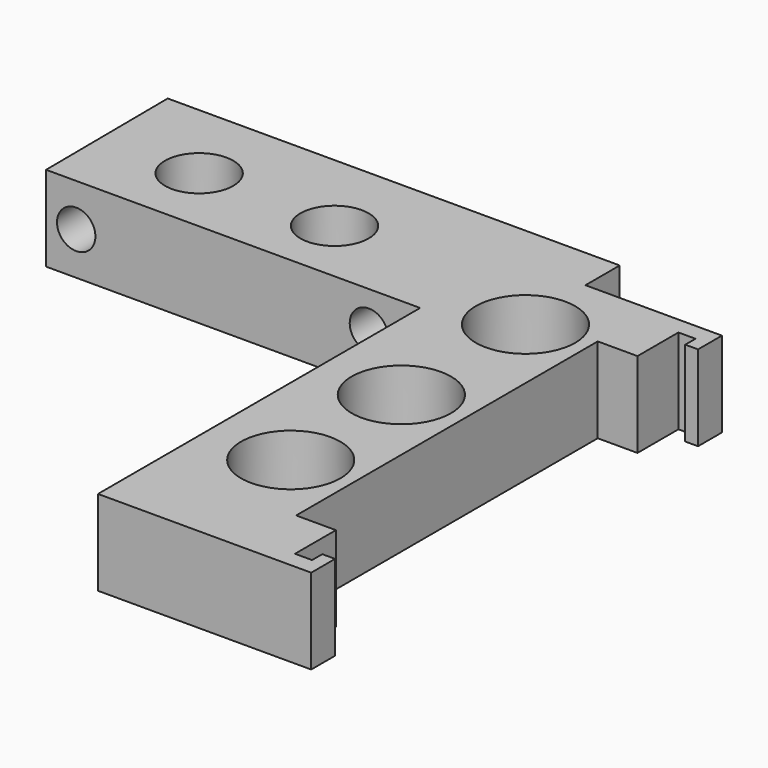
from build123d import *

# Parameters (mm, degrees)
F0_R     = 5.826295
F0_R_2   = 4
F1_DEPTH = 10
F2_R     = 2.25
F3_DEPTH = 65.221047


with BuildPart() as f1:
    # F0 (on Top) → F1 (new body)
    with BuildSketch(Plane.XY):
        Polygon((9, -35.120047), (34, -35.120047), (34, -31.620047), (32.5, -31.620047), (32.5, -33.120047), (30.5, -33.120047), (30.5, -27.120047), (25.837755, -27.120047), (25.837755, 17.079953), (30.5, 17.079953), (30.5, 23.079953), (32.5, 23.079953), (32.5, 21.579953), (34, 21.579953), (34, 25.079953), (18, 25.079953), (18, 30.1), (-35, 30.1), (-34.861884, 12.10053), (9, 12.10053), align=None)
        with Locations((18.575907, -18.840098)):
            Circle(F0_R, mode=Mode.SUBTRACT)
        with Locations((-23.485122, 20.315074)):
            Circle(F0_R_2, mode=Mode.SUBTRACT)
        with Locations((-7.290755, 19.914875)):
            Circle(F0_R_2, mode=Mode.SUBTRACT)
        with Locations((18.4194, -2.429582)):
            Circle(F0_R, mode=Mode.SUBTRACT)
        with Locations((18.575907, 15.569)):
            Circle(F0_R, mode=Mode.SUBTRACT)
    extrude(amount=F1_DEPTH)

    # F2 (on face) → F3 (cut, through all)
    with BuildSketch(Plane(origin=(0, 30.1, 0), x_dir=(-1, 0, 0), z_dir=(0, 1, 0))):
        with Locations((-2.989668, 5.744897)):
            Circle(F2_R)
        with Locations((31.328738, 5)):
            Circle(F2_R)
    extrude(amount=-F3_DEPTH, mode=Mode.SUBTRACT)


solid = f1.part
